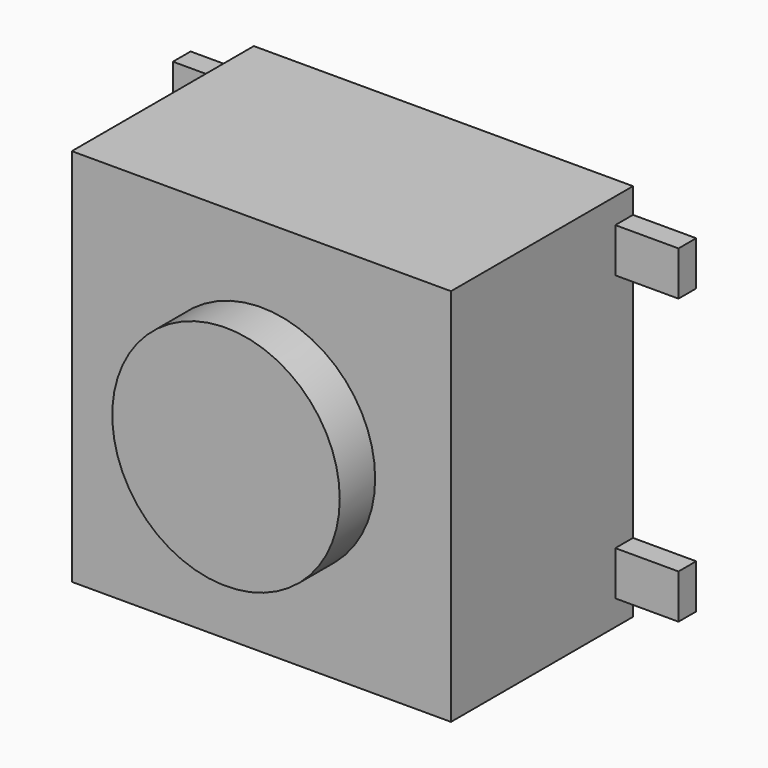
from build123d import *

# Parameters (mm, degrees)
F0_W          = 6
F0_H          = 6
F1_DEPTH      = 3.6
F2_R          = 1.8
F3_DEPTH      = 0.7
F4_W          = 0.35
F4_H          = 0.7
F5_DEPTH      = 1
F5_DEPTH_BACK = 7


with BuildPart() as f1:
    # F0 (on Front) → F1 (new body)
    with BuildSketch(Plane.XZ):
        with Locations((-54.375002, 35.616073)):
            Rectangle(F0_W, F0_H)
    extrude(amount=F1_DEPTH)

    # F2 (on face) → F3 (join)
    with BuildSketch(Plane.XZ.offset(3.6)):
        with Locations((-54.375002, 35.616073)):
            Circle(F2_R)
    extrude(amount=F3_DEPTH)

    # F4 (on face) → F5 (join, two sides)
    with BuildSketch(Plane(origin=(-57.375002, 0, 0), x_dir=(0, -1, 0), z_dir=(-1, 0, 0))) as f5_sk:
        with Locations((0.175, 37.866073)):
            Rectangle(F4_W, F4_H)
        with Locations((0.175, 33.366073)):
            Rectangle(F4_W, F4_H)
    extrude(amount=F5_DEPTH)
    extrude(f5_sk.sketch, amount=-F5_DEPTH_BACK)


solid = f1.part
